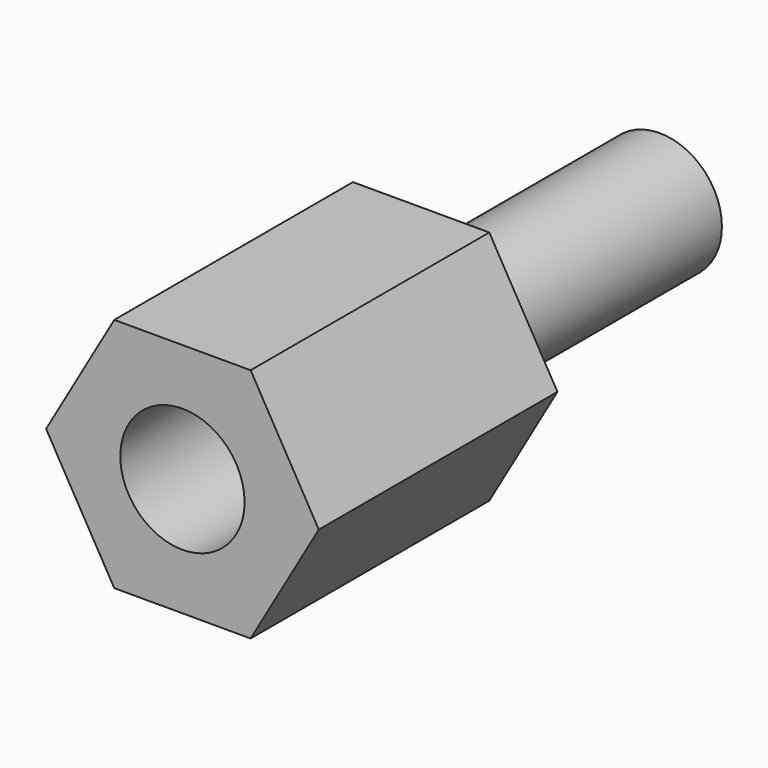
from build123d import *

# Parameters (mm, degrees)
PAD002_DEPTH            = 6
SKETCH008_R             = 1.25
PAD003_DEPTH            = 6
SKETCH009_R             = 1.25
POCKET004_DEPTH         = 5
BODY003_PLACEMENT_ANGLE = 90


with BuildPart() as part:
    # Sketch007 → Pad002 (new body)
    with BuildSketch(Plane.XY):
        Polygon((1.371207, 2.375), (-1.371207, 2.375), (-2.742414, 0), (-1.371207, -2.375), (1.371207, -2.375), (2.742414, 0), align=None)
    extrude(amount=PAD002_DEPTH)

    # Sketch008 (on Face7 of Pad002) → Pad003 (join)
    with BuildSketch(Plane(origin=(0, 0, 0), x_dir=(1, 0, 0), z_dir=(0, 0, -1))):
        Circle(SKETCH008_R)
    extrude(amount=PAD003_DEPTH)

    # Sketch009 (on Face5 of Pad003) → Pocket004 (cut)
    with BuildSketch(Plane.XY.offset(6)):
        Circle(SKETCH009_R)
    extrude(amount=-POCKET004_DEPTH, mode=Mode.SUBTRACT)


with BuildPart() as part_1:
    # Body003 placement: moved
    add(part.part.moved(Location((61, -16.5, -13.5))).rotate(Axis((61, -16.5, -13.5), (1, 0, 0)), BODY003_PLACEMENT_ANGLE))


with BuildPart() as part_2:
    # Body005 placement: moved
    add(part_1.part.moved(Location((0, 0, -49))))


solid = part_2.part
